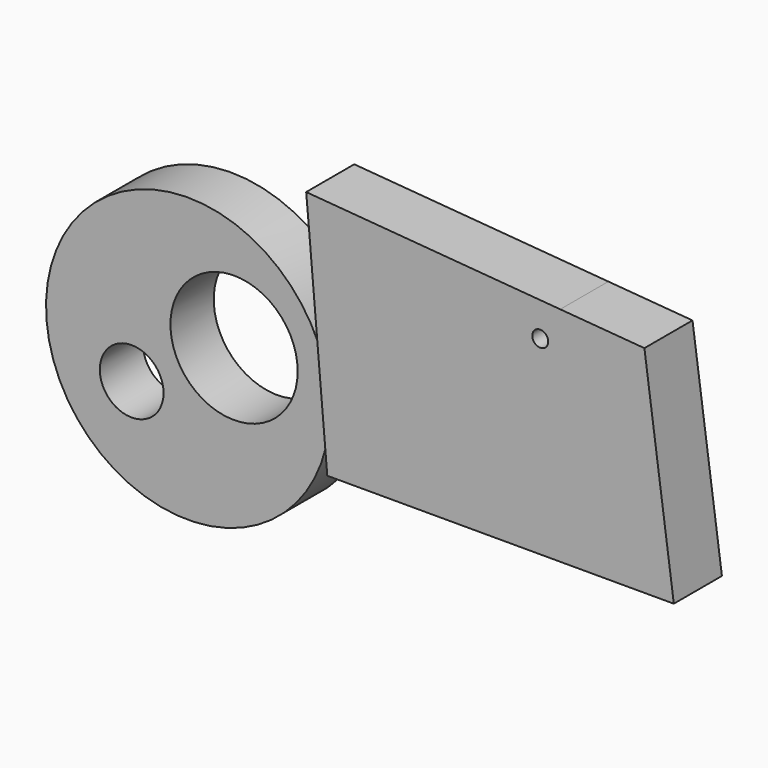
from build123d import *

# Parameters (mm, degrees)
F0_R     = 59.9535716792
F1_DEPTH = 22.86
F2_R     = 26.8781341555
F3_DEPTH = 22.861
F4_R     = 13.4691567937
F5_DEPTH = 22.861
F7_DEPTH = 25.4
F8_D     = 6.7564


with BuildPart() as f1:
    # F0 (on Front) → F1 (new body)
    with BuildSketch(Plane.XZ):
        with Locations((-19.4891095161, -10.3535922244)):
            Circle(F0_R)
    extrude(amount=F1_DEPTH)

    # F2 (on face) → F3 (cut, through all)
    with BuildSketch(Plane.XZ.offset(22.86)):
        Circle(F2_R)
    extrude(amount=-F3_DEPTH, mode=Mode.SUBTRACT)

    # F4 (on face) → F5 (cut, through all)
    with BuildSketch(Plane.XZ.offset(22.86)):
        with Locations((-43.2526767254, -26.5152305365)):
            Circle(F4_R)
    extrude(amount=-F5_DEPTH, mode=Mode.SUBTRACT)

    # F6 (on Front) → F7 (join)
    with BuildSketch(Plane.XZ):
        with BuildLine():
            Line((125.263456354, 62.0171219158), (32.4955508113, 69.5405378938))
            Line((32.4955508113, 69.5405378938), (33.5459113121, 57.9518266022))
            Line((33.5459113121, 57.9518266022), (41.4141863585, -33.0627560616))
            Line((41.4141863585, -33.0627560616), (187.8204643726, -33.0627560616))
            Line((187.8204643726, -33.0627560616), (175.3908097744, 57.9518266022))
            Line((175.3908097744, 57.9518266022), (139.8324502944, 60.8355861125))
            ThreePointArc((139.8324502944, 60.8355861125), (145.4206878129, 54.9930315803), (147.4552232917, 47.1684224904))
            ThreePointArc((147.4552232917, 47.1684224904), (122.458617796, 33.8177821083), (125.263456354, 62.0171219158))
        make_face()
        with BuildLine():
            Line((139.8324502944, 60.8355861125), (125.263456354, 62.0171219158))
            ThreePointArc((125.263456354, 62.0171219158), (122.458617796, 33.8177821083), (147.4552232917, 47.1684224904))
            ThreePointArc((147.4552232917, 47.1684224904), (145.4206878129, 54.9930315803), (139.8324502944, 60.8355861125))
        make_face()
    extrude(amount=F7_DEPTH)

    # F8 (through all)
    with Locations(Plane(origin=(0, 0, 0), x_dir=(1, 0, 0), z_dir=(0, 1, 0))):
        with Locations((131.3916444778, -47.1684224904)):
            Hole(F8_D / 2)


solid = f1.part
